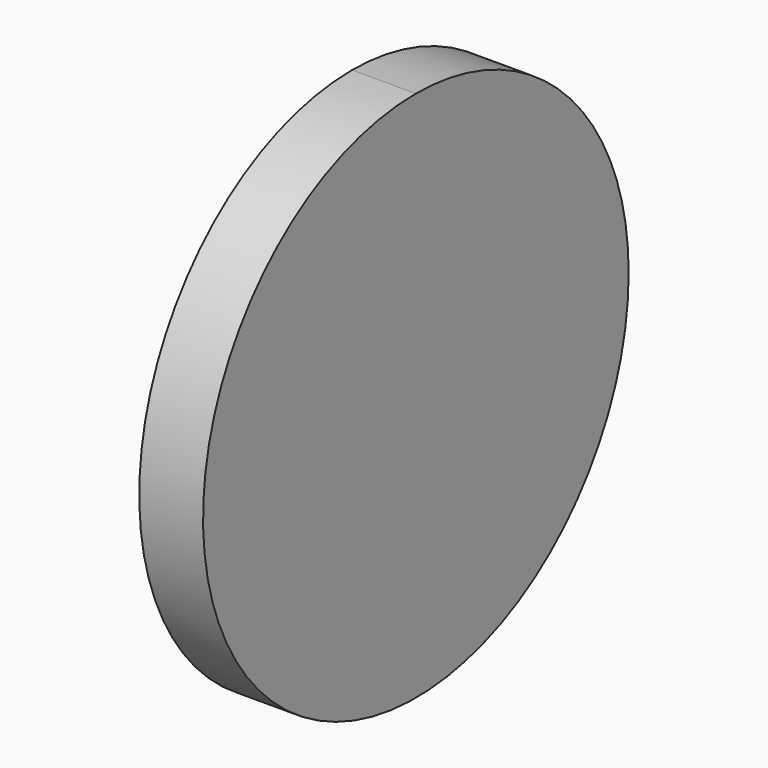
from build123d import *

# Parameters (mm, degrees)
F1_DEPTH = 0.939997


with BuildPart() as f1:
    # F0 (on Right) → F1 (new body)
    with BuildSketch(Plane.YZ):
        with BuildLine():
            add(Edge.make_bspline(
                [(0, 35.754304), (0.789085, 35.428337), (1.671295, 35.090135), (2.614777, 34.754642)],
                knots=[0, 0, 0, 0, 3.075861, 3.075861, 3.075861, 3.075861], degree=3))
            ThreePointArc((0, 35.754304), (-2.771516, 29.063273), (3.919516, 31.834789))
            ThreePointArc((3.919516, 31.834789), (3.578496, 33.433842), (2.614777, 34.754642))
        make_face()
        with BuildLine():
            ThreePointArc((2.614777, 34.754642), (1.399677, 35.495869), (0, 35.754304))
            add(Edge.make_bspline(
                [(0, 35.754304), (0.789085, 35.428337), (1.671295, 35.090135), (2.614777, 34.754642)],
                knots=[0, 0, 0, 0, 3.075861, 3.075861, 3.075861, 3.075861], degree=3))
        make_face()
    extrude(amount=F1_DEPTH)


solid = f1.part
